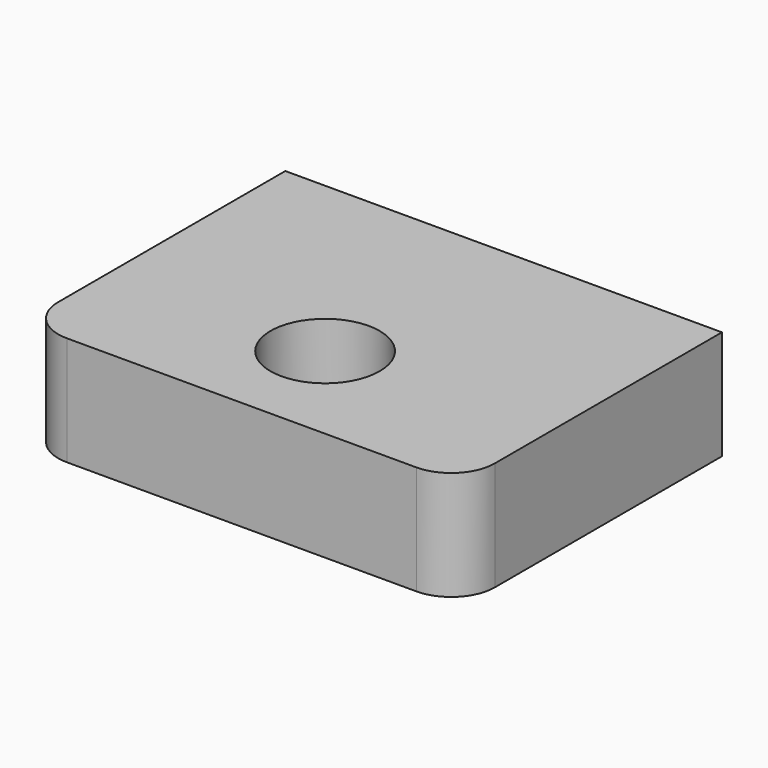
from build123d import *

# Parameters (mm, degrees)
F0_W     = 50.8
F0_H     = 38.1
F1_DEPTH = 12.7
F2_R     = 5.08
F3_R     = 6.35
F4_DEPTH = 12.701


with BuildPart() as f1:
    # F0 (on Top) → F1 (new body)
    with BuildSketch(Plane.XY):
        with Locations((0.445614, -19.05)):
            Rectangle(F0_W, F0_H)
    extrude(amount=F1_DEPTH)

    # F2
    f2_edges = [f1.edges().sort_by_distance(p)[0] for p in [
        (-24.954386, -38.1, 6.35),
        (25.845614, -38.1, 6.35),
    ]]
    fillet(f2_edges, radius=F2_R)

    # F3 (on Top) → F4 (cut, through all)
    with BuildSketch(Plane.XY):
        with Locations((0, -25.40782)):
            Circle(F3_R)
    extrude(amount=F4_DEPTH, mode=Mode.SUBTRACT)


solid = f1.part
